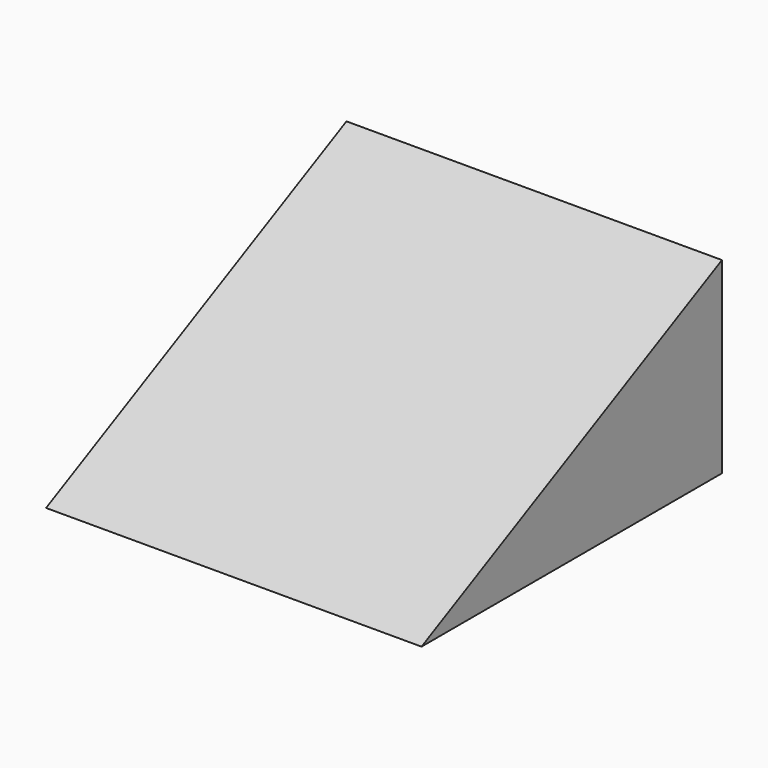
from build123d import *

# Parameters (mm, degrees)
F1_DEPTH = 304.8
F3_DEPTH = 304.8


with BuildPart() as f1:
    # F0 (on Right) → F1 (new body)
    with BuildSketch(Plane.YZ):
        Polygon((139.7, 62.0009683429), (152.4, 62.0009683429), (146.7203873372, 73.3601936686), (-129.6815493486, -64.8407746743), (-124.0019366858, -76.2), (-124.0019366858, -63.5), (-98.6019366858, -63.5), (97.1196126628, 34.3607746743), (139.7, 55.6509683429), align=None)
        Polygon((152.4, 62.0009683429), (152.4, 76.2), (146.7203873372, 73.3601936686), align=None)
        Polygon((152.4, -76.2), (152.4, 62.0009683429), (139.7, 55.6509683429), (139.7, -63.5), (139.7, -76.2), align=None)
        Polygon((139.7, 55.6509683429), (152.4, 62.0009683429), (139.7, 62.0009683429), align=None)
        Polygon((-129.6815493486, -64.8407746743), (-152.4, -76.2), (-124.0019366858, -76.2), align=None)
        Polygon((-124.0019366858, -63.5), (-124.0019366858, -76.2), (-98.6019366858, -63.5), align=None)
        Polygon((-98.6019366858, -63.5), (-124.0019366858, -76.2), (139.7, -76.2), (139.7, -63.5), align=None)
    extrude(amount=F1_DEPTH)

    # F2 (on face) → F3 (join)
    with BuildSketch(Plane.YZ.offset(304.8)):
        Polygon((139.7, 55.6509683429), (-98.6019366858, -63.5), (139.7, -63.5), align=None)
    extrude(amount=-F3_DEPTH)


solid = f1.part
